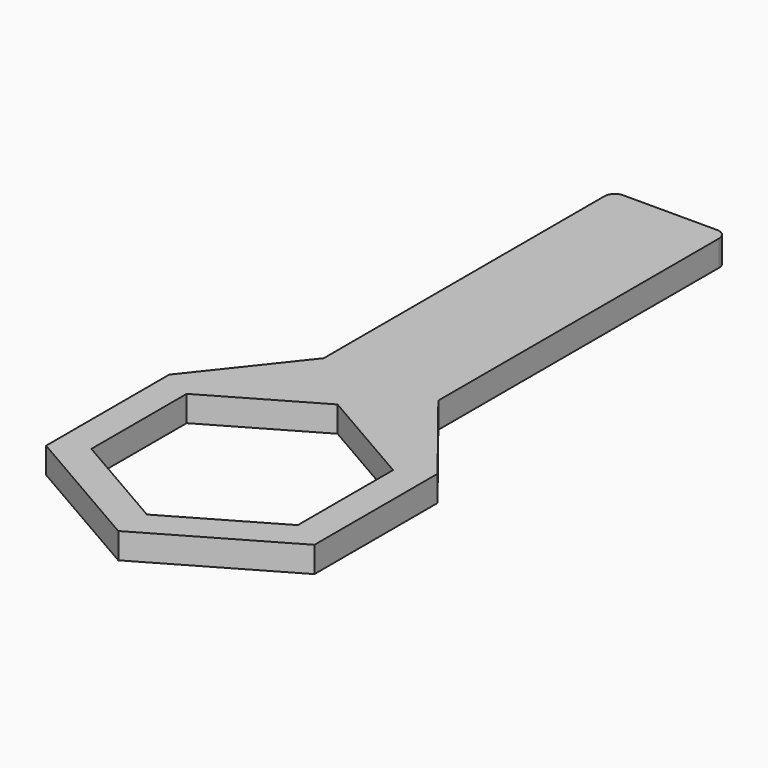
from build123d import *

# Parameters (mm, degrees)
F1_DEPTH = 2.5
F2_R     = 1


with BuildPart() as f1:
    # F0 (on Top) → F1 (new body)
    with BuildSketch(Plane.XY):
        Polygon((-5.55, 35), (-5.55, 0), (-13, -9.406871), (-13, -24.3175), (0, -31.823054), (13, -24.3175), (13, -9.406871), (5.55, 0), (5.55, 35), align=None)
        Polygon((10, -11.038444), (10, -22.585449), (0, -28.358952), (-10, -22.585449), (-10, -11.038444), (0, -5.264941), align=None, mode=Mode.SUBTRACT)
    extrude(amount=F1_DEPTH)

    # F2
    f2_edges = [f1.edges().sort_by_distance(p)[0] for p in [
        (-5.55, 35, 1.25),
        (5.55, 35, 1.25),
    ]]
    fillet(f2_edges, radius=F2_R)


solid = f1.part
